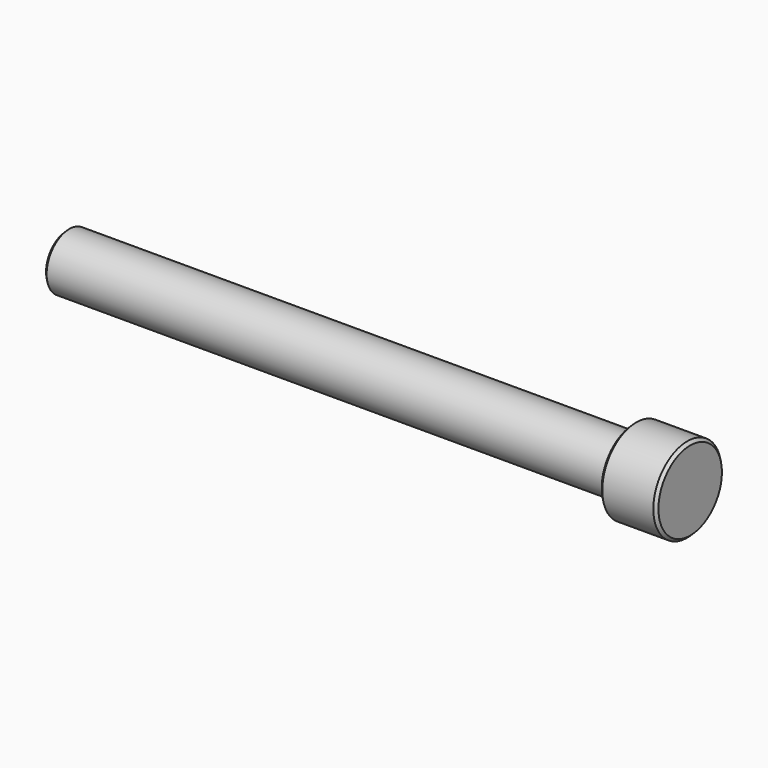
from build123d import *

# Parameters (mm, degrees)
F0_R     = 5
F1_DEPTH = 100
F2_R     = 7.5
F3_DEPTH = 10
F4_SIZE  = 0.5


with BuildPart() as f1:
    # F0 (on Right) → F1 (new body)
    with BuildSketch(Plane.YZ):
        Circle(F0_R)
    extrude(amount=-F1_DEPTH)

    # F2 (on Right) → F3 (join)
    with BuildSketch(Plane.YZ):
        Circle(F2_R)
    extrude(amount=F3_DEPTH)

    # F4
    f4_edges = [f1.edges().sort_by_distance(p)[0] for p in [
        (10, -7.5, 0),
        (-100, -5, 0),
        (0, -7.5, 0),
    ]]
    chamfer(f4_edges, length=F4_SIZE)


solid = f1.part
